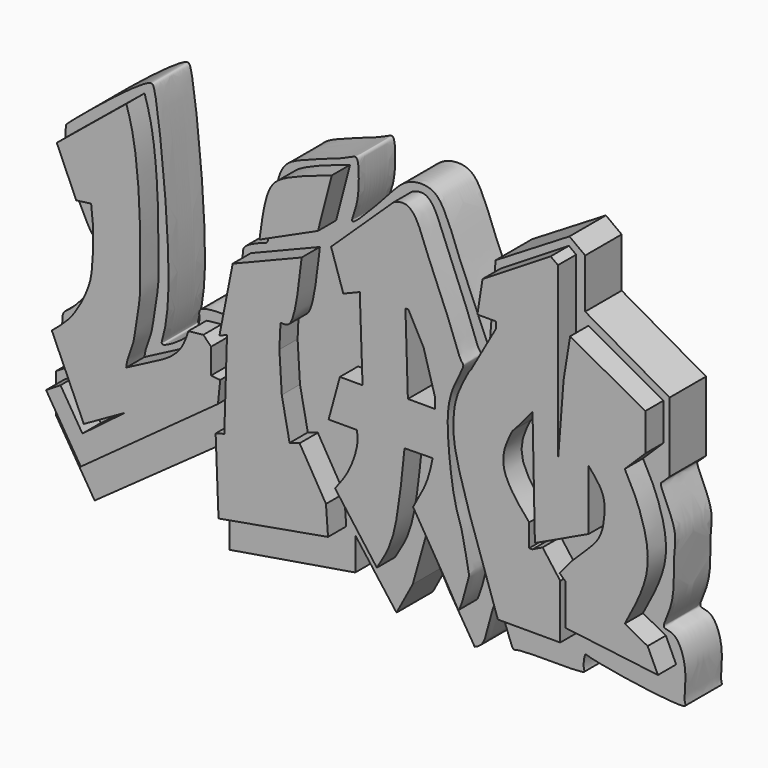
from build123d import *

# Parameters (mm, degrees)
F1_DEPTH = 15
F2_DEPTH = 10


with BuildPart() as f1:
    # F0 (on Front) → F1 (new body)
    with BuildSketch(Plane.XZ):
        with BuildLine():
            Line((-48.7130917609, 68.4517025948), (-63.9883130789, 55.9461638331))
            Line((-63.9883130789, 55.9461638331), (-59.707891196, 46.2103076279))
            Line((-59.707891196, 46.2103076279), (-56.4486011863, 46.645835042))
            add(Edge.make_bspline(
                [(-56.4486011863, 46.645835042), (-56.2944791605, 45.481944406), (-55.9643747344, 42.9890791035), (-55.9589592698, 38.4103997366), (-56.2592575563, 32.5904781826), (-57.4563066441, 29.029952391), (-60.3668233654, 23.2506113907), (-63.5077244982, 20.640829311), (-65.0755092502, 19.3381533027)],
                knots=[0, 0, 0, 0, 0.1417283808, 0.303559245, 0.4819685434, 0.6279970927, 0.8143142808, 1, 1, 1, 1], degree=3))
            Line((-65.0755092502, 19.3381533027), (-58.0595768988, 3.5584031139))
            Line((-58.0595768988, 3.5584031139), (-49.0981303155, 8.6029255763))
            Line((-49.0981303155, 8.6029255763), (-58.3563148975, 1.5999419848))
            Line((-58.3563148975, 1.5999419848), (-63.1634443998, 9.3744406477))
            Line((-63.1634443998, 9.3744406477), (-66.3313191872, 7.4156797024))
            Line((-66.3313191872, 7.4156797024), (-58.7197405631, -4.8944125901))
            Line((-58.7197405631, -4.8944125901), (-28.6138635129, 16.9925000519))
            Line((-28.6138635129, 16.9925000519), (-28.1198304147, 21.7916853726))
            Line((-28.1198304147, 21.7916853726), (-30.1255666409, 21.9981579332))
            Line((-30.1255666409, 21.9981579332), (-30.1255666409, 27.5636967272))
            Line((-30.1255666409, 27.5636967272), (-31.8127721548, 29.314443469))
            Line((-31.8127721548, 29.314443469), (-35.1065509021, 28.9583578706))
            add(Edge.make_bspline(
                [(-35.1065509021, 28.9583578706), (-35.2656178411, 28.4730038739), (-35.6300021633, 27.3611739221), (-36.7094585831, 24.8083110815), (-39.2613812006, 22.409881603), (-42.6044288676, 20.6873227107), (-46.5007884963, 18.6525844399), (-48.7564317882, 17.4746531993)],
                knots=[0, 0, 0, 0, 0.1365896744, 0.3128942838, 0.5093608982, 0.7159638985, 1, 1, 1, 1], degree=3))
            add(Edge.make_bspline(
                [(-48.7564317882, 17.4746531993), (-48.7002224697, 17.9566219316), (-48.5607563715, 19.1524787797), (-47.0705805782, 22.6190516132), (-46.7294929553, 25.9460723628), (-45.6060068085, 32.2186103511), (-45.7636521628, 35.1550671863), (-45.5041083707, 48.3151674116), (-46.7924822907, 62.007749759), (-48.165434035, 66.6142230808), (-48.7130917609, 68.4517025948)],
                knots=[0, 0, 0, 0, 0.0665223819, 0.1650547859, 0.265000519, 0.3925650129, 0.483882864, 0.6704487849, 0.8685450747, 1, 1, 1, 1], degree=3))
        make_face()
    extrude(amount=F1_DEPTH)


with BuildPart() as f1b:
    # F0 (on Front) → F1, piece 2 (new body)
    with BuildSketch(Plane.XZ):
        with BuildLine():
            add(Edge.make_bspline(
                [(-25.3779422492, 45.1570264995), (-20.3334204853, 47.19461749), (-15.2888987213, 49.2322084804), (-10.2443769574, 51.2697994709)],
                knots=[0, 0, 0, 0, 16.3214825258, 16.3214825258, 16.3214825258, 16.3214825258], degree=3))
            add(Edge.make_bspline(
                [(-25.3779422492, 45.1570264995), (-26.3472820322, 40.2114167809), (-27.3166218152, 35.2658070624), (-28.2859615982, 30.3201973438)],
                knots=[0, 0, 0, 0, 15.1191294699, 15.1191294699, 15.1191294699, 15.1191294699], degree=3))
            add(Edge.make_bspline(
                [(-28.2859615982, 30.3201973438), (-27.7320531507, 30.5378039678), (-27.1781447033, 30.7554105918), (-26.6242362559, 30.9730172157)],
                knots=[0, 0, 0, 0, 1.7853584789, 1.7853584789, 1.7853584789, 1.7853584789], degree=3))
            add(Edge.make_bspline(
                [(-26.6242362559, 30.9730172157), (-26.8237156173, 24.54060254), (-27.0231949786, 18.1081878642), (-27.22267434, 11.6757731885)],
                knots=[0, 0, 0, 0, 19.3065210535, 19.3065210535, 19.3065210535, 19.3065210535], degree=3))
            add(Edge.make_bspline(
                [(-27.22267434, 11.6757731885), (-27.8557122995, 11.4977313206), (-28.4887502591, 11.3196894526), (-29.1217882186, 11.1416475847)],
                knots=[0, 0, 0, 0, 1.9727959054, 1.9727959054, 1.9727959054, 1.9727959054], degree=3))
            Line((-29.1217882186, 11.1416475847), (-28.4887502591, -5.0884373486))
            Line((-28.4887502591, -5.0884373486), (-4.4574979693, -0.8387206472))
            Line((-4.4574979693, -0.8387206472), (-4.9066427164, 5.3993975744))
            Line((-4.9066427164, 5.3993975744), (-10.695617646, 15.2306715026))
            Line((-10.695617646, 15.2306715026), (-12.8914332017, 14.5819075406))
            Line((-12.8914332017, 14.5819075406), (-14.6091151983, 23.2861191034))
            Line((-14.6091151983, 23.2861191034), (-15.1343066245, 31.8923480809))
            Line((-15.1343066245, 31.8923480809), (-14.8909986019, 37.1451377869))
            Line((-14.8909986019, 37.1451377869), (-14.1566125676, 37.1471270919))
            Line((-14.1566125676, 37.1471270919), (-14.1612999141, 37.1451377869))
            add(Edge.make_bspline(
                [(-10.2443769574, 51.2697994709), (-10.9280636842, 45.2340427353), (-11.8300310316, 37.2712503057), (-13.7070515397, 37.1697108454), (-14.1612999141, 37.1451377869)],
                knots=[0, 0, 0, 0, 0.7579949859, 1, 1, 1, 1], degree=3))
        make_face()
    extrude(amount=F1_DEPTH)


with BuildPart() as f1c:
    # F0 (on Front) → F1, piece 3 (new body)
    with BuildSketch(Plane.XZ):
        with BuildLine():
            add(Edge.make_bspline(
                [(-3.6294714082, 69.283850491), (-7.5795160374, 67.9616669133), (-14.0835938008, 65.7845814336), (-18.0735068937, 62.3770647171), (-18.9697504224, 55.7179496106), (-19.5091273636, 51.7103634775)],
                knots=[0, 0, 0, 0, 0.381120021, 0.6275458853, 1, 1, 1, 1], degree=3))
            add(Edge.make_bspline(
                [(-19.5091273636, 51.7103634775), (-15.2275020567, 53.6629731456), (-10.9458767499, 55.6155828138), (-6.664251443, 57.568192482)],
                knots=[0, 0, 0, 0, 14.1175422103, 14.1175422103, 14.1175422103, 14.1175422103], degree=3))
            add(Edge.make_bspline(
                [(-6.664251443, 57.568192482), (-5.6526580981, 61.4734118183), (-4.6410647531, 65.3786311547), (-3.6294714082, 69.283850491)],
                knots=[0, 0, 0, 0, 12.102335826, 12.102335826, 12.102335826, 12.102335826], degree=3))
        make_face()
    extrude(amount=F1_DEPTH)


with BuildPart() as f1d:
    # F0 (on Front) → F1, piece 4 (new body)
    with BuildSketch(Plane.XZ):
        with BuildLine():
            add(Edge.make_bspline(
                [(-2.9136061203, 9.0484824032), (-1.8961862159, 10.3588694708), (0.218113258, 13.081983768), (2.2711502855, 18.9588026946), (1.9969272955, 21.0458926642), (1.885578502, 21.8933597207)],
                knots=[0, 0, 0, 0, 0.3552220328, 0.7381866168, 1, 1, 1, 1], degree=3))
            Line((-2.9136061203, 9.0484824032), (6.2613068148, -3.302360652))
            add(Edge.make_bspline(
                [(6.2613068148, -3.302360652), (7.1462297547, -1.8644127652), (9.0400667836, 1.2129613555), (10.9116279575, 7.7899522633), (11.8009849141, 16.5393362616), (12.3308626935, 21.7522084713)],
                knots=[0, 0, 0, 0, 0.2617347229, 0.5601424572, 1, 1, 1, 1], degree=3))
            add(Edge.make_bspline(
                [(18.5083653778, 21.8506660312), (16.4491978164, 21.8178468446), (14.3900302549, 21.7850276579), (12.3308626935, 21.7522084713)],
                knots=[0, 0, 0, 0, 6.1782872469, 6.1782872469, 6.1782872469, 6.1782872469], degree=3))
            add(Edge.make_bspline(
                [(14.21653945, 11.0212918371), (15.3246579697, 12.9654788274), (17.425966277, 16.6522110686), (18.1609656703, 20.1822040636), (18.5083653778, 21.8506660312)],
                knots=[0, 0, 0, 0, 0.5273469466, 1, 1, 1, 1], degree=3))
            add(Edge.make_bspline(
                [(9.9133942276, 68.4811472893), (10.2148886796, 68.6244736687), (10.9062219396, 68.9531241381), (12.9162470934, 69.236776971), (15.2119360169, 67.0065897554), (17.2220066181, 60.8068798453), (21.7874146758, 51.0541422288), (24.3999885877, 42.6490989591), (25.7536003135, 41.9537797946), (21.9505838645, 36.0137411865), (21.4905516859, 27.681937645), (23.2514027493, 14.0412435719), (24.861333747, 11.2963189751), (26.4055881596, 2.0484445214), (26.598718243, 1.7213749305), (24.3777986538, -6.3820517926), (23.6377706242, -4.4959213221), (18.5751110512, 3.8425183461), (14.21653945, 11.0212918371)],
                knots=[0, 0, 0, 0, 0.0283580275, 0.0650255666, 0.1104324548, 0.1793534788, 0.2734474529, 0.3517766611, 0.3776623007, 0.4430812784, 0.5273389968, 0.6255666537, 0.6806877202, 0.7597002335, 0.7883590381, 0.861769009, 0.8809934456, 1, 1, 1, 1], degree=3))
            Line((9.9133942276, 68.4811472893), (-3.7873219699, 55.4490610957))
            Line((-3.7873219699, 55.4490610957), (-1.1015682248, 47.2659058869))
            Line((-1.1015682248, 47.2659058869), (2.5074114092, 48.7346798182))
            Line((2.5074114092, 48.7346798182), (3.1198752113, 30.9271197766))
            add(Edge.make_bspline(
                [(-1.8549629021, 30.9271197766), (-0.196683531, 30.9271197766), (1.4615958401, 30.9271197766), (3.1198752113, 30.9271197766)],
                knots=[0, 0, 0, 0, 4.9748381134, 4.9748381134, 4.9748381134, 4.9748381134], degree=3))
            add(Edge.make_bspline(
                [(-4.3251309544, 21.8933597207), (-3.5017416036, 24.9046130727), (-2.6783522529, 27.9158664246), (-1.8549629021, 30.9271197766)],
                knots=[0, 0, 0, 0, 9.3653911266, 9.3653911266, 9.3653911266, 9.3653911266], degree=3))
            add(Edge.make_bspline(
                [(1.885578502, 21.8933597207), (-0.1846579835, 21.8933597207), (-2.2548944689, 21.8933597207), (-4.3251309544, 21.8933597207)],
                knots=[0, 0, 0, 0, 6.2107094564, 6.2107094564, 6.2107094564, 6.2107094564], degree=3))
        make_face()
        Polygon((13.0638582632, 31.520742923), (12.532485649, 48.8583594561), (13.1809040904, 48.8583594561), (16.5060330182, 42.6047444344), (19.0012808889, 33.8713787496), (19.0012808889, 31.520742923), align=None, mode=Mode.SUBTRACT)
    extrude(amount=F1_DEPTH)


with BuildPart() as f1e:
    # F0 (on Front) → F1, piece 5 (new body)
    with BuildSketch(Plane.XZ):
        with BuildLine():
            add(Edge.make_bspline(
                [(32.8144282103, -4.671565257), (28.9386779116, 6.5409178346), (23.2582528431, 22.9742959232), (22.9271552864, 30.0828001212), (23.450381316, 35.5450690429), (25.3851110823, 39.123553763), (26.4025181532, 41.0053543746)],
                knots=[0, 0, 0, 0, 0.428957418, 0.6286938741, 0.8047430269, 1, 1, 1, 1], degree=3))
            Line((32.8144282103, -4.671565257), (46.4949831367, -4.671565257))
            Line((46.4949831367, -4.671565257), (46.4949831367, 7.2464640252))
            Line((46.4949831367, 7.2464640252), (42.6342114806, 12.4501101673))
            Line((42.6342114806, 12.4501101673), (40.383990854, 11.343142949))
            Line((40.383990854, 11.343142949), (39.6853201091, 11.343142949))
            Line((39.6853201091, 11.343142949), (39.6853201091, 16.3336377591))
            add(Edge.make_bspline(
                [(39.6853201091, 16.3336377591), (38.9141646781, 17.2058192954), (37.1848700094, 19.1616622034), (33.8058186532, 24.1156519302), (33.9851794872, 28.7918214986), (35.3398241895, 31.4747027641), (36.0167846084, 32.8154265881)],
                knots=[0, 0, 0, 0, 0.226549868, 0.5080317963, 0.7541473416, 1, 1, 1, 1], degree=3))
            Line((36.0167846084, 32.8154265881), (36.6102568805, 33.4088988602))
            Line((36.6102568805, 33.4088988602), (40.4221188141, 37.9389395393))
            Line((40.4221188141, 37.9389395393), (40.9426093102, 12.7560328692))
            Line((40.9426093102, 12.7560328692), (52.75272578, 18.3346793056))
            Line((52.75272578, 18.3346793056), (52.75272578, 31.4504355192))
            add(Edge.make_bspline(
                [(46.369638294, 8.7019242346), (47.4197616473, 10.0458447483), (49.669167367, 12.9245755953), (55.3388246237, 17.5668783587), (56.196266625, 22.2242248096), (56.4600244419, 27.1890069551), (54.0235346361, 29.9896788732), (52.75272578, 31.4504355192)],
                knots=[0, 0, 0, 0, 0.2003520868, 0.429162087, 0.613117698, 0.7982123896, 1, 1, 1, 1], degree=3))
            Line((46.369638294, 8.7019242346), (47.6285852492, 7.5269076042))
            Line((47.6285852492, 7.5269076042), (47.6285852492, -1.4535785886))
            Line((47.6285852492, -1.4535785886), (67.939594388, -3.9714719169))
            add(Edge.make_bspline(
                [(65.6825453043, 0.8829235449), (66.4348949989, -0.7352082757), (67.1872446934, -2.3533400963), (67.939594388, -3.9714719169)],
                knots=[0, 0, 0, 0, 5.3534499031, 5.3534499031, 5.3534499031, 5.3534499031], degree=3))
            add(Edge.make_bspline(
                [(60.6594011188, 3.5777904559), (62.3337825139, 2.6795014855), (64.0081639091, 1.7812125152), (65.6825453043, 0.8829235449)],
                knots=[0, 0, 0, 0, 5.7003758803, 5.7003758803, 5.7003758803, 5.7003758803], degree=3))
            add(Edge.make_bspline(
                [(60.6594011188, 33.4786884487), (61.3700839372, 32.1819989181), (62.949922659, 29.2994748478), (65.4447862645, 22.6489001583), (66.3174438137, 14.1719406935), (62.6602777358, 7.3242428301), (60.6594011188, 3.5777904559)],
                knots=[0, 0, 0, 0, 0.1942150034, 0.431737443, 0.6890971757, 1, 1, 1, 1], degree=3))
            Line((60.6594011188, 33.4786884487), (65.1697963476, 37.9297398031))
            Line((65.1697963476, 37.9297398031), (65.1697963476, 46.1196675897))
            Line((65.1697963476, 46.1196675897), (48.671245575, 55.1998056471))
            Line((48.671245575, 55.1998056471), (47.2469069064, 46.3570579886))
            Line((47.2469069064, 46.3570579886), (46.0006147623, 30.2739348263))
            Line((46.0006147623, 30.2739348263), (46.0006147623, 68.0781751871))
            Line((46.0006147623, 68.0781751871), (44.4036573172, 69.2600160837))
            Line((44.4036573172, 69.2600160837), (29.4456370175, 60.0126348436))
            Line((29.4456370175, 60.0126348436), (28.3188130707, 52.791878581))
            Line((28.3188130707, 52.791878581), (32.3866866529, 52.791878581))
            Line((32.3866866529, 52.791878581), (32.3866866529, 51.3368211687))
            Line((32.3866866529, 51.3368211687), (26.8772952259, 41.5988266468))
            Line((26.8772952259, 41.5988266468), (26.4025181532, 41.0053543746))
        make_face()
    extrude(amount=F1_DEPTH)


with BuildPart() as f2:
    # F0 (on Front) → F2 (new body)
    with BuildSketch(Plane.XZ):
        with BuildLine():
            add(Edge.make_bspline(
                [(26.6202750305, 44.4098028044), (24.1695088472, 50.094574375), (20.5566861096, 58.4748401579), (19.3819376696, 61.8196642806), (17.3780678263, 66.8736681521), (14.8303544539, 70.9836803655), (8.7002642341, 70.7561352806), (4.9996019148, 66.3623355524), (-4.5625370131, 56.1033205194), (-1.9171924525, 61.85251245), (-1.6060554802, 67.0052823026), (-1.8598613771, 71.9163629437), (-4.3608060845, 70.0518788456), (-15.9410420322, 66.6390895543), (-19.9985322129, 63.0767769821), (-21.3736188435, 48.3206312971), (-22.21852092, 48.2335986503), (-27.4500416128, 46.2248266363), (-26.7654755849, 43.8503392144), (-29.3450360071, 31.2410272158), (-30.5880707049, 31.4837181407), (-37.0702661969, 31.4253790085), (-36.5372229852, 28.9749778393), (-37.0409481425, 25.4499686757), (-45.5578550901, 20.0032623408), (-44.550868022, 22.849387546), (-43.3774897335, 28.4618743455), (-43.2687942822, 43.4936844748), (-46.0249513074, 69.3992764715), (-47.7151106527, 72.2740822818), (-66.3203548916, 56.7327551059), (-65.8618681699, 56.751052738), (-66.3891817958, 49.0463295594), (-65.976969003, 49.3801623857), (-60.4269324203, 36.680286886), (-59.7681854678, 37.7986583588), (-57.0391910804, 39.3735758996), (-58.2148384246, 31.2148397882), (-60.0945071939, 26.747327626), (-64.8125145977, 21.339904013), (-66.8893462892, 20.4864694449), (-66.6879297688, 17.0943267023), (-67.2286672011, 12.3091857286), (-66.1659326486, 10.6550175676), (-65.7154321671, 9.9538043141)],
                knots=[0, 0, 0, 0, 0.041159288, 0.0606753972, 0.0845407266, 0.1067621592, 0.1297338618, 0.1571526736, 0.1906693955, 0.2081277557, 0.234358404, 0.2542759984, 0.2687694023, 0.3046264364, 0.3306655479, 0.3687990047, 0.3780265425, 0.40066194, 0.4176653013, 0.4538120242, 0.4646987169, 0.4894537982, 0.502652177, 0.5228248721, 0.5525627048, 0.5638840016, 0.5878159642, 0.6306693633, 0.6835016236, 0.6963262155, 0.7459699987, 0.7539497101, 0.7813584678, 0.7907333914, 0.8278097836, 0.8353461885, 0.8488513208, 0.8747501729, 0.9003476256, 0.9274116515, 0.941811412, 0.9600193102, 0.9830519108, 1, 1, 1, 1], degree=3))
            Line((-65.7154321671, 9.9538043141), (-68.204334732, 8.4148656035))
            Line((-68.204334732, 8.4148656035), (-68.204334732, 0))
            Line((-68.204334732, 0), (-59.6749295484, -13.7944794629))
            Line((-59.6749295484, -13.7944794629), (-31.0624968261, 6.636721082))
            Line((-31.0624968261, 6.636721082), (-30.0744306296, 6.636721082))
            Line((-30.0744306296, 6.636721082), (-30.0744306296, -13.6892385781))
            Line((-30.0744306296, -13.6892385781), (-2.4791164324, -9.1017819941))
            Line((-2.4791164324, -9.1017819941), (-2.4791164324, -1.9030049443))
            Line((-2.4791164324, -1.9030049443), (6.573303137, -13.9117110521))
            Line((6.573303137, -13.9117110521), (10.1341400295, -7.2648120113))
            Line((10.1341400295, -7.2648120113), (13.1015069783, 3.2990102191))
            Line((13.1015069783, 3.2990102191), (18.264722079, -6.0778656043))
            Line((18.264722079, -6.0778656043), (23.7358356397, -14.9262157562))
            add(Edge.make_bspline(
                [(23.7358356397, -14.9262157562), (24.5043558324, -14.5994848659), (26.5408753032, -13.7336731069), (28.1267696246, 0.6484236945), (31.9055203379, -13.4006832785), (33.0196734244, -11.8801916849), (48.7560708469, -12.6726826582), (47.437601747, -11.3234898583), (47.8578993005, -8.1301801188), (48.8649216102, -9.1326656407), (71.0613071449, -12.5481676188), (69.4478469976, -10.3215199244), (70.6578396556, -4.6290175155), (68.2184223695, 2.284553883), (64.6685864249, 1.930665706), (66.0747515618, 4.7496119982), (67.7002264435, 9.4832818241), (67.2058699017, 17.2189021849), (68.439919341, 21.9456685947), (64.1443817601, 29.7145536427), (64.8599406973, 30.2374124188), (65.8433854772, 31.1918849682), (66.5020346642, 31.8311303854)],
                knots=[0, 0, 0, 0, 0.0416812313, 0.1104520609, 0.1783721002, 0.2062426431, 0.2970317135, 0.3166628978, 0.3560112938, 0.3800961095, 0.4898501676, 0.5113962176, 0.5696410215, 0.6321665475, 0.6673209881, 0.7017999241, 0.7570315628, 0.8225283754, 0.8784892248, 0.9455692541, 0.9635457249, 1, 1, 1, 1], degree=3))
            add(Edge.make_bspline(
                [(66.5020346642, 31.8311303854), (66.5020346642, 36.9319605331), (66.5020346642, 42.0327906807), (66.5020346642, 47.1336208284)],
                knots=[0, 0, 0, 0, 15.302490443, 15.302490443, 15.302490443, 15.302490443], degree=3))
            add(Edge.make_bspline(
                [(66.5020346642, 47.1336208284), (60.3280924261, 50.6586705645), (54.154150188, 54.1837203006), (47.9802079499, 57.7087700367)],
                knots=[0, 0, 0, 0, 21.3281936791, 21.3281936791, 21.3281936791, 21.3281936791], degree=3))
            add(Edge.make_bspline(
                [(47.9802079499, 57.7087700367), (47.9802079499, 61.3272339106), (47.9802079499, 64.9456977844), (47.9802079499, 68.5641616583)],
                knots=[0, 0, 0, 0, 10.8553916216, 10.8553916216, 10.8553916216, 10.8553916216], degree=3))
            add(Edge.make_bspline(
                [(47.9802079499, 68.5641616583), (46.8264048298, 69.4148068627), (45.6726017098, 70.2654520671), (44.5187985897, 71.1160972714)],
                knots=[0, 0, 0, 0, 4.3004337144, 4.3004337144, 4.3004337144, 4.3004337144], degree=3))
            add(Edge.make_bspline(
                [(44.5187985897, 71.1160972714), (39.1181937108, 67.8257085383), (33.717588832, 64.5353198051), (28.3169839531, 61.244931072)],
                knots=[0, 0, 0, 0, 18.9720510134, 18.9720510134, 18.9720510134, 18.9720510134], degree=3))
            add(Edge.make_bspline(
                [(28.3169839531, 61.244931072), (27.9015526175, 55.8706112206), (27.486121282, 50.4962913692), (27.0706899464, 45.1219715178)],
                knots=[0, 0, 0, 0, 16.1710566611, 16.1710566611, 16.1710566611, 16.1710566611], degree=3))
            add(Edge.make_bspline(
                [(27.0706899464, 45.1219715178), (26.9205516411, 44.8845819467), (26.7704133358, 44.6471923755), (26.6202750305, 44.4098028044)],
                knots=[0, 0, 0, 0, 0.8426493178, 0.8426493178, 0.8426493178, 0.8426493178], degree=3))
        make_face()
        with BuildLine():
            add(Edge.make_bspline(
                [(-25.3779422492, 45.1570264995), (-26.3472820322, 40.2114167809), (-27.3166218152, 35.2658070624), (-28.2859615982, 30.3201973438)],
                knots=[0, 0, 0, 0, 15.1191294699, 15.1191294699, 15.1191294699, 15.1191294699], degree=3))
            add(Edge.make_bspline(
                [(-25.3779422492, 45.1570264995), (-20.3334204853, 47.19461749), (-15.2888987213, 49.2322084804), (-10.2443769574, 51.2697994709)],
                knots=[0, 0, 0, 0, 16.3214825258, 16.3214825258, 16.3214825258, 16.3214825258], degree=3))
            add(Edge.make_bspline(
                [(-10.2443769574, 51.2697994709), (-10.9280636842, 45.2340427353), (-11.8300310316, 37.2712503057), (-13.7070515397, 37.1697108454), (-14.1612999141, 37.1451377869)],
                knots=[0, 0, 0, 0, 0.7579949859, 1, 1, 1, 1], degree=3))
            Line((-14.1612999141, 37.1451377869), (-14.1566125676, 37.1471270919))
            Line((-14.1566125676, 37.1471270919), (-14.8909986019, 37.1451377869))
            Line((-14.8909986019, 37.1451377869), (-15.1343066245, 31.8923480809))
            Line((-15.1343066245, 31.8923480809), (-14.6091151983, 23.2861191034))
            Line((-14.6091151983, 23.2861191034), (-12.8914332017, 14.5819075406))
            Line((-12.8914332017, 14.5819075406), (-10.695617646, 15.2306715026))
            Line((-10.695617646, 15.2306715026), (-4.9066427164, 5.3993975744))
            Line((-4.9066427164, 5.3993975744), (-4.4574979693, -0.8387206472))
            Line((-4.4574979693, -0.8387206472), (-28.4887502591, -5.0884373486))
            Line((-28.4887502591, -5.0884373486), (-29.1217882186, 11.1416475847))
            add(Edge.make_bspline(
                [(-27.22267434, 11.6757731885), (-27.8557122995, 11.4977313206), (-28.4887502591, 11.3196894526), (-29.1217882186, 11.1416475847)],
                knots=[0, 0, 0, 0, 1.9727959054, 1.9727959054, 1.9727959054, 1.9727959054], degree=3))
            add(Edge.make_bspline(
                [(-26.6242362559, 30.9730172157), (-26.8237156173, 24.54060254), (-27.0231949786, 18.1081878642), (-27.22267434, 11.6757731885)],
                knots=[0, 0, 0, 0, 19.3065210535, 19.3065210535, 19.3065210535, 19.3065210535], degree=3))
            add(Edge.make_bspline(
                [(-28.2859615982, 30.3201973438), (-27.7320531507, 30.5378039678), (-27.1781447033, 30.7554105918), (-26.6242362559, 30.9730172157)],
                knots=[0, 0, 0, 0, 1.7853584789, 1.7853584789, 1.7853584789, 1.7853584789], degree=3))
        make_face(mode=Mode.SUBTRACT)
        with BuildLine():
            Line((-59.707891196, 46.2103076279), (-63.9883130789, 55.9461638331))
            Line((-63.9883130789, 55.9461638331), (-48.7130917609, 68.4517025948))
            add(Edge.make_bspline(
                [(-48.7564317882, 17.4746531993), (-48.7002224697, 17.9566219316), (-48.5607563715, 19.1524787797), (-47.0705805782, 22.6190516132), (-46.7294929553, 25.9460723628), (-45.6060068085, 32.2186103511), (-45.7636521628, 35.1550671863), (-45.5041083707, 48.3151674116), (-46.7924822907, 62.007749759), (-48.165434035, 66.6142230808), (-48.7130917609, 68.4517025948)],
                knots=[0, 0, 0, 0, 0.0665223819, 0.1650547859, 0.265000519, 0.3925650129, 0.483882864, 0.6704487849, 0.8685450747, 1, 1, 1, 1], degree=3))
            add(Edge.make_bspline(
                [(-35.1065509021, 28.9583578706), (-35.2656178411, 28.4730038739), (-35.6300021633, 27.3611739221), (-36.7094585831, 24.8083110815), (-39.2613812006, 22.409881603), (-42.6044288676, 20.6873227107), (-46.5007884963, 18.6525844399), (-48.7564317882, 17.4746531993)],
                knots=[0, 0, 0, 0, 0.1365896744, 0.3128942838, 0.5093608982, 0.7159638985, 1, 1, 1, 1], degree=3))
            Line((-35.1065509021, 28.9583578706), (-31.8127721548, 29.314443469))
            Line((-31.8127721548, 29.314443469), (-30.1255666409, 27.5636967272))
            Line((-30.1255666409, 27.5636967272), (-30.1255666409, 21.9981579332))
            Line((-30.1255666409, 21.9981579332), (-28.1198304147, 21.7916853726))
            Line((-28.1198304147, 21.7916853726), (-28.6138635129, 16.9925000519))
            Line((-28.6138635129, 16.9925000519), (-58.7197405631, -4.8944125901))
            Line((-58.7197405631, -4.8944125901), (-66.3313191872, 7.4156797024))
            Line((-66.3313191872, 7.4156797024), (-63.1634443998, 9.3744406477))
            Line((-63.1634443998, 9.3744406477), (-58.3563148975, 1.5999419848))
            Line((-58.3563148975, 1.5999419848), (-49.0981303155, 8.6029255763))
            Line((-49.0981303155, 8.6029255763), (-58.0595768988, 3.5584031139))
            Line((-58.0595768988, 3.5584031139), (-65.0755092502, 19.3381533027))
            add(Edge.make_bspline(
                [(-56.4486011863, 46.645835042), (-56.2944791605, 45.481944406), (-55.9643747344, 42.9890791035), (-55.9589592698, 38.4103997366), (-56.2592575563, 32.5904781826), (-57.4563066441, 29.029952391), (-60.3668233654, 23.2506113907), (-63.5077244982, 20.640829311), (-65.0755092502, 19.3381533027)],
                knots=[0, 0, 0, 0, 0.1417283808, 0.303559245, 0.4819685434, 0.6279970927, 0.8143142808, 1, 1, 1, 1], degree=3))
            Line((-56.4486011863, 46.645835042), (-59.707891196, 46.2103076279))
        make_face(mode=Mode.SUBTRACT)
        with BuildLine():
            add(Edge.make_bspline(
                [(-19.5091273636, 51.7103634775), (-15.2275020567, 53.6629731456), (-10.9458767499, 55.6155828138), (-6.664251443, 57.568192482)],
                knots=[0, 0, 0, 0, 14.1175422103, 14.1175422103, 14.1175422103, 14.1175422103], degree=3))
            add(Edge.make_bspline(
                [(-3.6294714082, 69.283850491), (-7.5795160374, 67.9616669133), (-14.0835938008, 65.7845814336), (-18.0735068937, 62.3770647171), (-18.9697504224, 55.7179496106), (-19.5091273636, 51.7103634775)],
                knots=[0, 0, 0, 0, 0.381120021, 0.6275458853, 1, 1, 1, 1], degree=3))
            add(Edge.make_bspline(
                [(-6.664251443, 57.568192482), (-5.6526580981, 61.4734118183), (-4.6410647531, 65.3786311547), (-3.6294714082, 69.283850491)],
                knots=[0, 0, 0, 0, 12.102335826, 12.102335826, 12.102335826, 12.102335826], degree=3))
        make_face(mode=Mode.SUBTRACT)
        with BuildLine():
            Line((6.2613068148, -3.302360652), (-2.9136061203, 9.0484824032))
            add(Edge.make_bspline(
                [(-2.9136061203, 9.0484824032), (-1.8961862159, 10.3588694708), (0.218113258, 13.081983768), (2.2711502855, 18.9588026946), (1.9969272955, 21.0458926642), (1.885578502, 21.8933597207)],
                knots=[0, 0, 0, 0, 0.3552220328, 0.7381866168, 1, 1, 1, 1], degree=3))
            add(Edge.make_bspline(
                [(1.885578502, 21.8933597207), (-0.1846579835, 21.8933597207), (-2.2548944689, 21.8933597207), (-4.3251309544, 21.8933597207)],
                knots=[0, 0, 0, 0, 6.2107094564, 6.2107094564, 6.2107094564, 6.2107094564], degree=3))
            add(Edge.make_bspline(
                [(-4.3251309544, 21.8933597207), (-3.5017416036, 24.9046130727), (-2.6783522529, 27.9158664246), (-1.8549629021, 30.9271197766)],
                knots=[0, 0, 0, 0, 9.3653911266, 9.3653911266, 9.3653911266, 9.3653911266], degree=3))
            add(Edge.make_bspline(
                [(-1.8549629021, 30.9271197766), (-0.196683531, 30.9271197766), (1.4615958401, 30.9271197766), (3.1198752113, 30.9271197766)],
                knots=[0, 0, 0, 0, 4.9748381134, 4.9748381134, 4.9748381134, 4.9748381134], degree=3))
            Line((3.1198752113, 30.9271197766), (2.5074114092, 48.7346798182))
            Line((2.5074114092, 48.7346798182), (-1.1015682248, 47.2659058869))
            Line((-1.1015682248, 47.2659058869), (-3.7873219699, 55.4490610957))
            Line((-3.7873219699, 55.4490610957), (9.9133942276, 68.4811472893))
            add(Edge.make_bspline(
                [(9.9133942276, 68.4811472893), (10.2148886796, 68.6244736687), (10.9062219396, 68.9531241381), (12.9162470934, 69.236776971), (15.2119360169, 67.0065897554), (17.2220066181, 60.8068798453), (21.7874146758, 51.0541422288), (24.3999885877, 42.6490989591), (25.7536003135, 41.9537797946), (21.9505838645, 36.0137411865), (21.4905516859, 27.681937645), (23.2514027493, 14.0412435719), (24.861333747, 11.2963189751), (26.4055881596, 2.0484445214), (26.598718243, 1.7213749305), (24.3777986538, -6.3820517926), (23.6377706242, -4.4959213221), (18.5751110512, 3.8425183461), (14.21653945, 11.0212918371)],
                knots=[0, 0, 0, 0, 0.0283580275, 0.0650255666, 0.1104324548, 0.1793534788, 0.2734474529, 0.3517766611, 0.3776623007, 0.4430812784, 0.5273389968, 0.6255666537, 0.6806877202, 0.7597002335, 0.7883590381, 0.861769009, 0.8809934456, 1, 1, 1, 1], degree=3))
            add(Edge.make_bspline(
                [(14.21653945, 11.0212918371), (15.3246579697, 12.9654788274), (17.425966277, 16.6522110686), (18.1609656703, 20.1822040636), (18.5083653778, 21.8506660312)],
                knots=[0, 0, 0, 0, 0.5273469466, 1, 1, 1, 1], degree=3))
            add(Edge.make_bspline(
                [(18.5083653778, 21.8506660312), (16.4491978164, 21.8178468446), (14.3900302549, 21.7850276579), (12.3308626935, 21.7522084713)],
                knots=[0, 0, 0, 0, 6.1782872469, 6.1782872469, 6.1782872469, 6.1782872469], degree=3))
            add(Edge.make_bspline(
                [(6.2613068148, -3.302360652), (7.1462297547, -1.8644127652), (9.0400667836, 1.2129613555), (10.9116279575, 7.7899522633), (11.8009849141, 16.5393362616), (12.3308626935, 21.7522084713)],
                knots=[0, 0, 0, 0, 0.2617347229, 0.5601424572, 1, 1, 1, 1], degree=3))
        make_face(mode=Mode.SUBTRACT)
        with BuildLine():
            Line((46.4949831367, -4.671565257), (32.8144282103, -4.671565257))
            add(Edge.make_bspline(
                [(32.8144282103, -4.671565257), (28.9386779116, 6.5409178346), (23.2582528431, 22.9742959232), (22.9271552864, 30.0828001212), (23.450381316, 35.5450690429), (25.3851110823, 39.123553763), (26.4025181532, 41.0053543746)],
                knots=[0, 0, 0, 0, 0.428957418, 0.6286938741, 0.8047430269, 1, 1, 1, 1], degree=3))
            Line((26.4025181532, 41.0053543746), (26.8772952259, 41.5988266468))
            Line((26.8772952259, 41.5988266468), (32.3866866529, 51.3368211687))
            Line((32.3866866529, 51.3368211687), (32.3866866529, 52.791878581))
            Line((32.3866866529, 52.791878581), (28.3188130707, 52.791878581))
            Line((28.3188130707, 52.791878581), (29.4456370175, 60.0126348436))
            Line((29.4456370175, 60.0126348436), (44.4036573172, 69.2600160837))
            Line((44.4036573172, 69.2600160837), (46.0006147623, 68.0781751871))
            Line((46.0006147623, 68.0781751871), (46.0006147623, 30.2739348263))
            Line((46.0006147623, 30.2739348263), (47.2469069064, 46.3570579886))
            Line((47.2469069064, 46.3570579886), (48.671245575, 55.1998056471))
            Line((48.671245575, 55.1998056471), (65.1697963476, 46.1196675897))
            Line((65.1697963476, 46.1196675897), (65.1697963476, 37.9297398031))
            Line((65.1697963476, 37.9297398031), (60.6594011188, 33.4786884487))
            add(Edge.make_bspline(
                [(60.6594011188, 33.4786884487), (61.3700839372, 32.1819989181), (62.949922659, 29.2994748478), (65.4447862645, 22.6489001583), (66.3174438137, 14.1719406935), (62.6602777358, 7.3242428301), (60.6594011188, 3.5777904559)],
                knots=[0, 0, 0, 0, 0.1942150034, 0.431737443, 0.6890971757, 1, 1, 1, 1], degree=3))
            add(Edge.make_bspline(
                [(60.6594011188, 3.5777904559), (62.3337825139, 2.6795014855), (64.0081639091, 1.7812125152), (65.6825453043, 0.8829235449)],
                knots=[0, 0, 0, 0, 5.7003758803, 5.7003758803, 5.7003758803, 5.7003758803], degree=3))
            add(Edge.make_bspline(
                [(65.6825453043, 0.8829235449), (66.4348949989, -0.7352082757), (67.1872446934, -2.3533400963), (67.939594388, -3.9714719169)],
                knots=[0, 0, 0, 0, 5.3534499031, 5.3534499031, 5.3534499031, 5.3534499031], degree=3))
            Line((67.939594388, -3.9714719169), (47.6285852492, -1.4535785886))
            Line((47.6285852492, -1.4535785886), (47.6285852492, 7.5269076042))
            Line((47.6285852492, 7.5269076042), (46.369638294, 8.7019242346))
            add(Edge.make_bspline(
                [(46.369638294, 8.7019242346), (47.4197616473, 10.0458447483), (49.669167367, 12.9245755953), (55.3388246237, 17.5668783587), (56.196266625, 22.2242248096), (56.4600244419, 27.1890069551), (54.0235346361, 29.9896788732), (52.75272578, 31.4504355192)],
                knots=[0, 0, 0, 0, 0.2003520868, 0.429162087, 0.613117698, 0.7982123896, 1, 1, 1, 1], degree=3))
            Line((52.75272578, 31.4504355192), (52.75272578, 18.3346793056))
            Line((52.75272578, 18.3346793056), (40.9426093102, 12.7560328692))
            Line((40.9426093102, 12.7560328692), (40.4221188141, 37.9389395393))
            Line((40.4221188141, 37.9389395393), (36.6102568805, 33.4088988602))
            Line((36.6102568805, 33.4088988602), (36.0167846084, 32.8154265881))
            add(Edge.make_bspline(
                [(39.6853201091, 16.3336377591), (38.9141646781, 17.2058192954), (37.1848700094, 19.1616622034), (33.8058186532, 24.1156519302), (33.9851794872, 28.7918214986), (35.3398241895, 31.4747027641), (36.0167846084, 32.8154265881)],
                knots=[0, 0, 0, 0, 0.226549868, 0.5080317963, 0.7541473416, 1, 1, 1, 1], degree=3))
            Line((39.6853201091, 16.3336377591), (39.6853201091, 11.343142949))
            Line((39.6853201091, 11.343142949), (40.383990854, 11.343142949))
            Line((40.383990854, 11.343142949), (42.6342114806, 12.4501101673))
            Line((42.6342114806, 12.4501101673), (46.4949831367, 7.2464640252))
            Line((46.4949831367, 7.2464640252), (46.4949831367, -4.671565257))
        make_face(mode=Mode.SUBTRACT)
    extrude(amount=F2_DEPTH)


solid = Compound([f1.part, f1b.part, f1c.part, f1d.part, f1e.part, f2.part])
